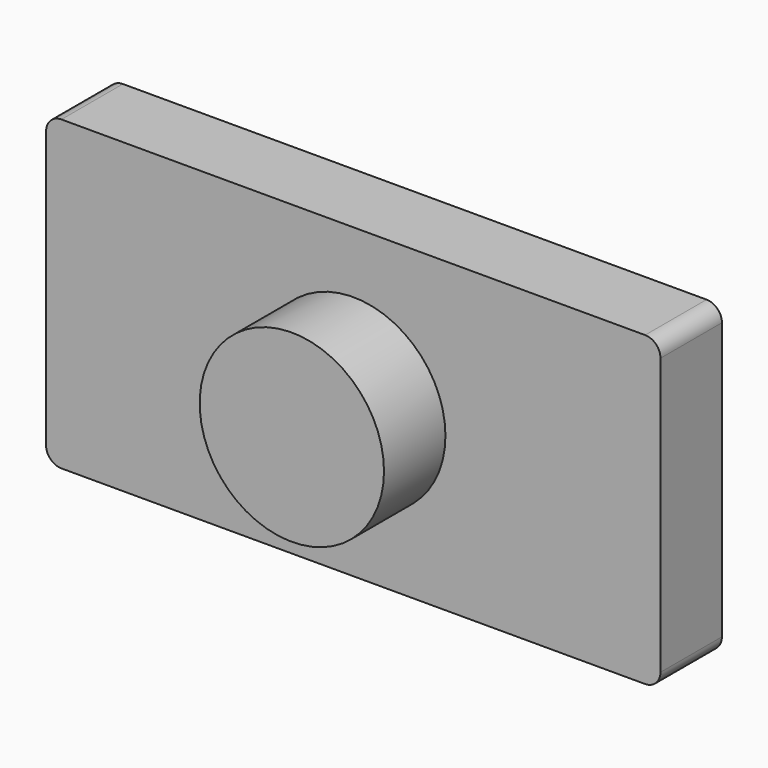
from build123d import *

# Parameters (mm, degrees)
F0_W     = 200
F0_H     = 100
F1_DEPTH = 25
F2_R     = 5
F3_R     = 30
F4_DEPTH = 25


with BuildPart() as f1:
    # F0 (on Front) → F1 (new body)
    with BuildSketch(Plane.XZ):
        Rectangle(F0_W, F0_H)
    extrude(amount=F1_DEPTH)

    # F2
    f2_edges = [f1.edges().sort_by_distance(p)[0] for p in [
        (-100, -12.5, -50),
        (100, -12.5, -50),
        (100, -12.5, 50),
        (-100, -12.5, 50),
    ]]
    fillet(f2_edges, radius=F2_R)

    # F3 (on face) → F4 (join)
    with BuildSketch(Plane.XZ.offset(25)):
        Circle(F3_R)
    extrude(amount=F4_DEPTH)


solid = f1.part
